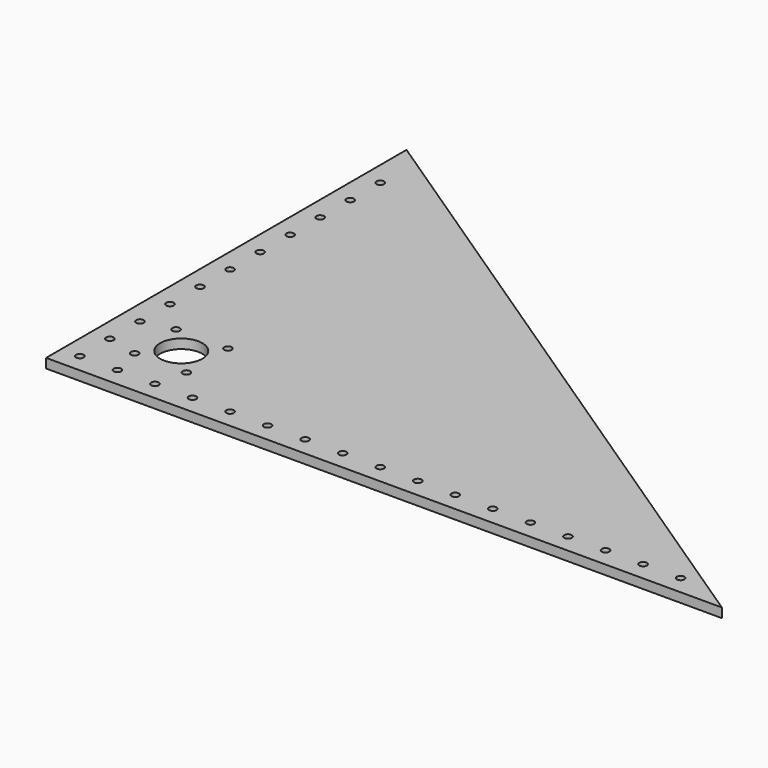
from build123d import *

# Parameters (mm, degrees)
F1_DEPTH = 6.35
F3_D     = 5.1054
F5_D     = 5.1054
F6_D     = 28.575


with BuildPart() as f1:
    # F0 (on Top) → F1 (new body)
    with BuildSketch(Plane.XY):
        Polygon((222.605536, -187.339712), (-234.594464, 117.460288), (-234.594464, -187.339712), align=None)
    extrude(amount=F1_DEPTH)

    # F3 (through all)
    with Locations(Plane.XY.offset(6.35)):
        with Locations((-221.894464, 53.960288), (-69.494464, -174.639712), (82.905536, -174.639712), (-221.894464, -22.239712), (-221.894464, -47.639712), (-221.894464, -73.039712), (-221.894464, 28.560288), (-171.094464, -174.639712), (-221.894464, 3.160288), (108.305536, -174.639712), (-120.294464, -174.639712), (159.105536, -174.639712), (-18.694464, -174.639712), (-94.894464, -174.639712), (32.105536, -174.639712), (-221.894464, -123.839712), (-221.894464, -174.639712), (-221.894464, -98.439712), (184.505536, -174.639712), (-196.494464, -174.639712), (133.705536, -174.639712), (57.505536, -174.639712), (-145.694464, -174.639712), (-44.094464, -174.639712), (6.705536, -174.639712), (-221.894464, -149.239712), (-221.894464, 79.360288)):
            Hole(F3_D / 2)

    # F5 (through all)
    with Locations(Plane.XY.offset(6.35)):
        with Locations((-201.320464, -119.013712), (-166.268464, -119.013712), (-201.320464, -154.065712), (-166.268464, -154.065712)):
            Hole(F5_D / 2)

    # F6 (through all)
    with Locations(Plane.XY.offset(6.35)):
        with Locations((-183.794464, -136.539712)):
            Hole(F6_D / 2)


solid = f1.part
